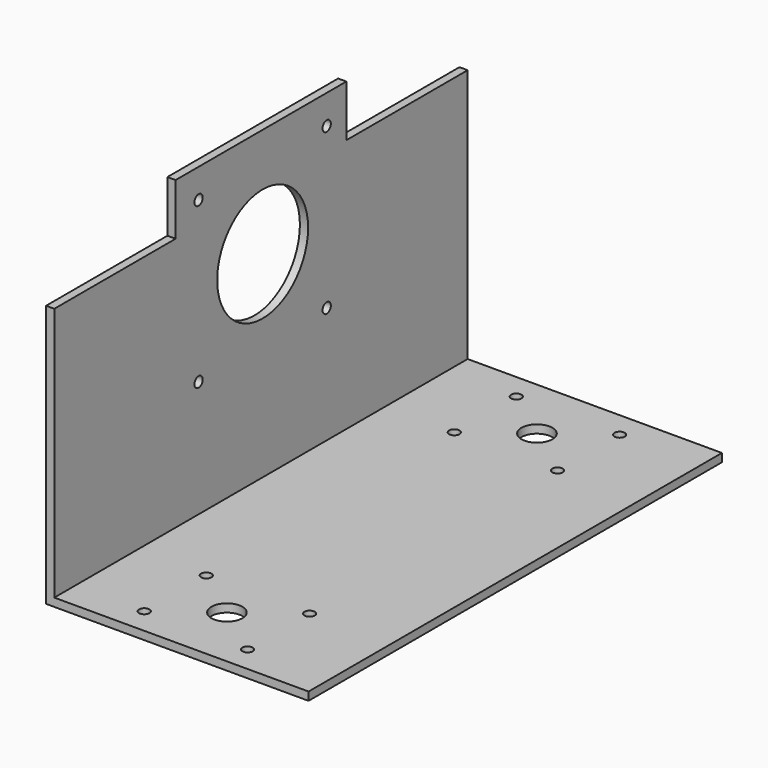
from build123d import *

# Parameters (mm, degrees)
F1_DEPTH = 100
F2_R     = 1
F2_R_2   = 3
F3_DEPTH = 50.801
F4_W     = 41.3
F4_H     = 10
F5_DEPTH = 1.59
F6_R     = 1
F6_R_2   = 11
F7_DEPTH = 50.801


with BuildPart() as f1:
    # F0 (on Front) → F1 (new body)
    with BuildSketch(Plane.XZ):
        Polygon((0, 50.8), (0, 0), (50.8, 0), (50.8, 1.59), (1.59, 1.59), (1.59, 50.8), align=None)
    extrude(amount=F1_DEPTH)

    # F2 (on Top) → F3 (cut, through all)
    with BuildSketch(Plane.XY):
        with Locations((15, -5)):
            Circle(F2_R)
        with Locations((35, -5)):
            Circle(F2_R)
        with Locations((15, -20)):
            Circle(F2_R)
        with Locations((35, -20)):
            Circle(F2_R)
        with Locations((35, -80)):
            Circle(F2_R)
        with Locations((15, -80)):
            Circle(F2_R)
        with Locations((35, -95)):
            Circle(F2_R)
        with Locations((15, -95)):
            Circle(F2_R)
        with Locations((25, -87.5)):
            Circle(F2_R_2)
        with Locations((25, -12.5)):
            Circle(F2_R_2)
    extrude(amount=F3_DEPTH, mode=Mode.SUBTRACT)

    # F4 (on Right) → F5 (join)
    with BuildSketch(Plane.YZ):
        with Locations((-50, 55.8)):
            Rectangle(F4_W, F4_H)
    extrude(amount=F5_DEPTH)

    # F6 (on Right) → F7 (cut, through all)
    with BuildSketch(Plane.YZ):
        with Locations((-65.097293, 24.15)):
            Circle(F6_R)
        with Locations((-34.097293, 24.15)):
            Circle(F6_R)
        with Locations((-34.097293, 55.15)):
            Circle(F6_R)
        with Locations((-65.097293, 55.15)):
            Circle(F6_R)
        with Locations((-49.597293, 39.65)):
            Circle(F6_R_2)
    extrude(amount=F7_DEPTH, mode=Mode.SUBTRACT)


solid = f1.part
